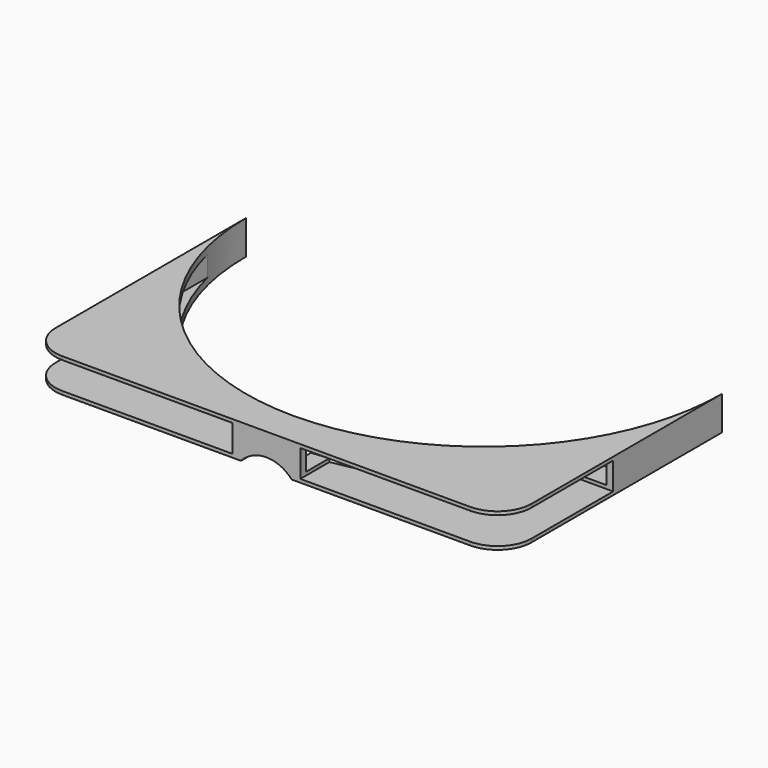
from build123d import *

# Parameters (mm, degrees)
F0_W     = 177.8
F0_H     = 12.7
F1_DEPTH = 101.6
F2_R     = 88.9
F3_DEPTH = 25.4
F4_T     = -2.54
F5_W     = 76.2
F5_H     = 10.16
F6_DEPTH = 50.8
F7_R     = 12.7
F8_R     = 12.7
F9_DEPTH = 25.4


with BuildPart() as f1:
    # F0 (on Front) → F1 (new body)
    with BuildSketch(Plane.XZ):
        with Locations((88.9, 6.35)):
            Rectangle(F0_W, F0_H)
    extrude(amount=-F1_DEPTH)

    # F2 (on face) → F3 (cut)
    with BuildSketch(Plane.XY.offset(12.7)):
        with Locations((88.9, 101.6)):
            Circle(F2_R)
    extrude(amount=-F3_DEPTH, mode=Mode.SUBTRACT)

    # F4
    f4_openings = [f1.faces().sort_by_distance(p)[0] for p in [
        (88.9, 12.7, 6.35),
    ]]
    offset(amount=F4_T, openings=f4_openings, kind=Kind.INTERSECTION)

    # F5 (on face) → F6 (cut)
    with BuildSketch(Plane.XZ):
        with Locations((38.1, 6.35)):
            Rectangle(F5_W, F5_H)
        with Locations((139.7, 6.35)):
            Rectangle(F5_W, F5_H)
    extrude(amount=-F6_DEPTH, mode=Mode.SUBTRACT)

    # F7
    f7_edges = [f1.edges().sort_by_distance(p)[0] for p in [
        (177.8, 0, 12.065),
        (177.8, 0, 0.635),
        (0, 0, 12.065),
        (0, 0, 0.635),
    ]]
    fillet(f7_edges, radius=F7_R)

    # F8 (on face) → F9 (cut)
    with BuildSketch(Plane.XZ):
        with Locations((88.9, -8.4582)):
            Circle(F8_R)
    extrude(amount=-F9_DEPTH, mode=Mode.SUBTRACT)


solid = f1.part
